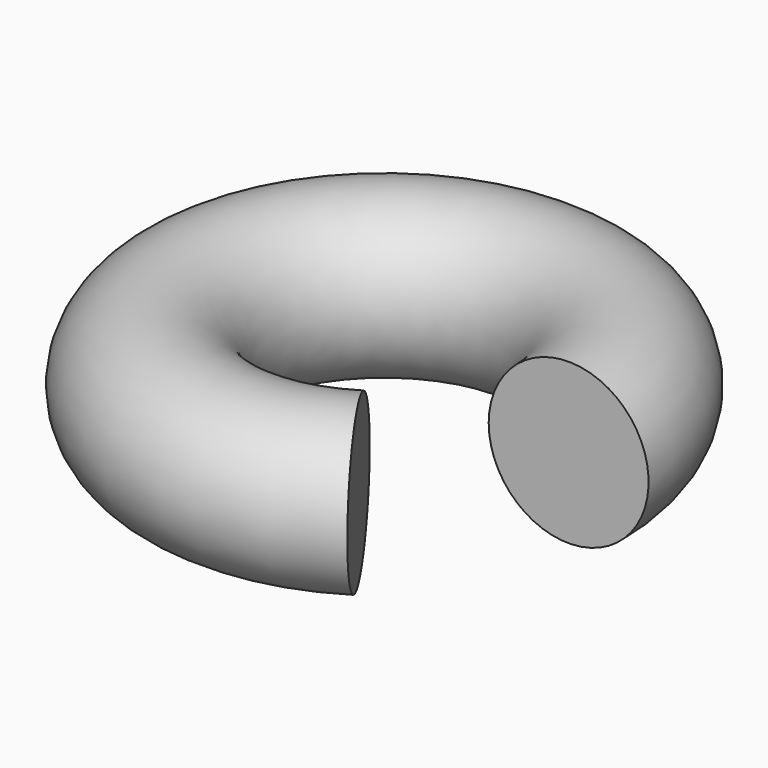
from build123d import *

# Parameters (mm, degrees)
F2_R = 7.5


with BuildPart() as f3:
    # F3: sweep along a path in F0
    with BuildLine(Plane.XY) as f3_path:
        ThreePointArc((25, 0), (-21.9061893941, 12.0465292193), (13.3904907015, -21.1114840495))
    # F2 (on line) → F3 (sweep)
    with BuildSketch(Plane(origin=(0, 0, 0), x_dir=(-1, 0, 0), z_dir=(0, 1, 0))):
        with Locations((-17.291864696, 0)):
            Circle(F2_R)
    sweep(path=f3_path.line)


solid = f3.part
